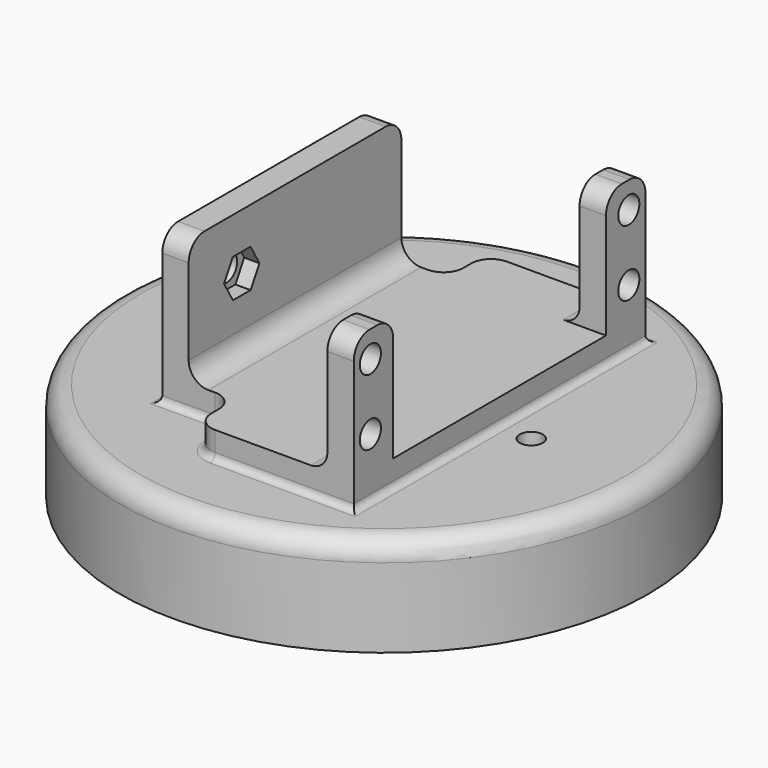
from build123d import *

# Parameters (mm, degrees)
PAD001_DEPTH            = 27.625
SKETCH006_W             = 4
SKETCH006_H             = 40.3
POCKET003_DEPTH         = 19
SKETCH007_W             = 11
SKETCH007_H             = 7.48
POCKET004_DEPTH         = 161.659754
SKETCH008_R             = 2
POCKET005_DEPTH         = 5
POCKET006_DEPTH         = 2.3
SKETCH010_R             = 2
POCKET007_DEPTH         = 1.7
FILLET001_R             = 3
FILLET002_R             = 2.5
BODY001_PLACEMENT_ANGLE = 90
SKETCH_R                = 40
PAD_DEPTH               = 15
POCKET_DEPTH            = 3.5
SKETCH002_R             = 3.25
POCKET001_DEPTH         = 8.5
SKETCH003_R             = 1.75
POCKET002_DEPTH         = 15.001
FILLET_R                = 3
FILLET003_R             = 1


with BuildPart() as body001:
    # Sketch005 → Pad001 (new body, symmetric)
    with BuildSketch(Plane.YZ):
        Polygon((-17.5, 23), (-17.5, 0), (17.5, 0), (17.5, 23), (13.5, 23), (13.5, 4), (-13.5, 4), (-13.5, 23), align=None)
    extrude(amount=PAD001_DEPTH, both=True)

    # Sketch006 (on Face8 of Pad001) → Pocket003 (cut)
    with BuildSketch(Plane(origin=(0, 0, 23), x_dir=(0, -1, 0), z_dir=(0, 0, 1))):
        with Locations((15.5, 0)):
            Rectangle(SKETCH006_W, SKETCH006_H)
    extrude(amount=-POCKET003_DEPTH, mode=Mode.SUBTRACT)

    # Sketch007 (on Face11 of Pocket003) → Pocket004 (cut, through all)
    with BuildSketch(Plane(origin=(0, 0, 23), x_dir=(0, -1, 0), z_dir=(0, 0, 1))):
        with Locations((-12, 23.885)):
            Rectangle(SKETCH007_W, SKETCH007_H)
    pocket004 = extrude(amount=-POCKET004_DEPTH, mode=Mode.SUBTRACT)

    # Mirrored: Pocket004 across YZ
    add(pocket004.mirror(Plane.YZ), mode=Mode.SUBTRACT)

    # Sketch008 (on Face1 of Mirrored) → Pocket005 (cut)
    with BuildSketch(Plane(origin=(0, -17.5, 0), x_dir=(0, 0, -1), z_dir=(0, -1, 0))):
        with Locations((-19.01, -24.475)):
            Circle(SKETCH008_R)
        with Locations((-8.99, -24.475)):
            Circle(SKETCH008_R)
        with Locations((-8.99, 24.475)):
            Circle(SKETCH008_R)
        with Locations((-19.01, 24.475)):
            Circle(SKETCH008_R)
    extrude(amount=-POCKET005_DEPTH, mode=Mode.SUBTRACT)

    # Sketch009 (on Face22 of Pocket005) → Pocket006 (cut)
    with BuildSketch(Plane(origin=(0, 13.5, 0), x_dir=(0, 0, -1), z_dir=(0, -1, 0))):
        Polygon((-11.598815, -11.77), (-11.598815, -8.42), (-14.5, -6.745), (-17.401185, -8.42), (-17.401185, -11.77), (-14.5, -13.445), align=None)
    extrude(amount=-POCKET006_DEPTH, mode=Mode.SUBTRACT)

    # Sketch010 (on Face30 of Pocket006) → Pocket007 (cut)
    with BuildSketch(Plane(origin=(0, 15.8, 0), x_dir=(0, 0, -1), z_dir=(0, -1, 0))):
        with Locations((-14.5, -10.095)):
            Circle(SKETCH010_R)
    extrude(amount=-POCKET007_DEPTH, mode=Mode.SUBTRACT)

    # Fillet001
    fillet001_edges = [body001.edges().sort_by_distance(p)[0] for p in [
        (-20.15, -15.5, 23),
        (-27.625, -15.5, 23),
        (20.15, -15.5, 23),
        (27.625, -15.5, 23),
        (20.145, 15.5, 23),
        (27.625, 6.5, 2),
        (-20.145, 15.5, 23),
        (-27.625, 6.5, 2),
        (-20.145, 6.5, 2),
        (20.145, 6.5, 2),
        (0, 13.5, 4),
    ]]
    fillet(fillet001_edges, radius=FILLET001_R)

    # Fillet002
    fillet002_edges = [body001.edges().sort_by_distance(p)[0] for p in [
        (-23.8875, -13.5, 4),
        (23.8875, -13.5, 4),
    ]]
    fillet(fillet002_edges, radius=FILLET002_R)


with BuildPart() as body001_1:
    # Body001 placement: moved
    add(body001.part.moved(Location((0, 0, 15))).rotate(Axis((0, 0, 15), (0, 0, 1)), BODY001_PLACEMENT_ANGLE))


with BuildPart() as body:
    # Sketch → Pad (new body)
    with BuildSketch(Plane.XY):
        Circle(SKETCH_R)
    extrude(amount=PAD_DEPTH)

    # Sketch001 (on Face2 of Pad) → Pocket (cut)
    with BuildSketch(Plane(origin=(0, 0, 0), x_dir=(1, 0, 0), z_dir=(0, 0, -1))):
        Polygon((2.875, -4.979646), (5.75, 0), (2.875, 4.979646), (-2.875, 4.979646), (-5.75, 0), (-2.875, -4.979646), align=None)
    extrude(amount=-POCKET_DEPTH, mode=Mode.SUBTRACT)

    # Sketch002 (on Face10 of Pocket) → Pocket001 (cut)
    with BuildSketch(Plane(origin=(0, 0, 3.5), x_dir=(1, 0, 0), z_dir=(0, 0, -1))):
        Circle(SKETCH002_R)
    extrude(amount=-POCKET001_DEPTH, mode=Mode.SUBTRACT)

    # Sketch003 (on Face3 of Pocket001) → Pocket002 (cut, through all)
    with BuildSketch(Plane.XY.offset(15)):
        with Locations((22.3, 0)):
            Circle(SKETCH003_R)
        with Locations((-22.3, 0)):
            Circle(SKETCH003_R)
    extrude(amount=-POCKET002_DEPTH, mode=Mode.SUBTRACT)

    # Fillet
    fillet_edges = [body.edges().sort_by_distance(p)[0] for p in [
        (-40, 0, 15),
    ]]
    fillet(fillet_edges, radius=FILLET_R)

    # Boolean: union Body001
    add(body001_1.part)

    # Fillet003
    fillet003_edges = [body.edges().sort_by_distance(p)[0] for p in [
        (17.5, 0, 15),
        (7, 27.625, 15),
        (7, -27.625, 15),
        (-17.5, 0, 15),
    ]]
    fillet(fillet003_edges, radius=FILLET003_R)


solid = body.part
